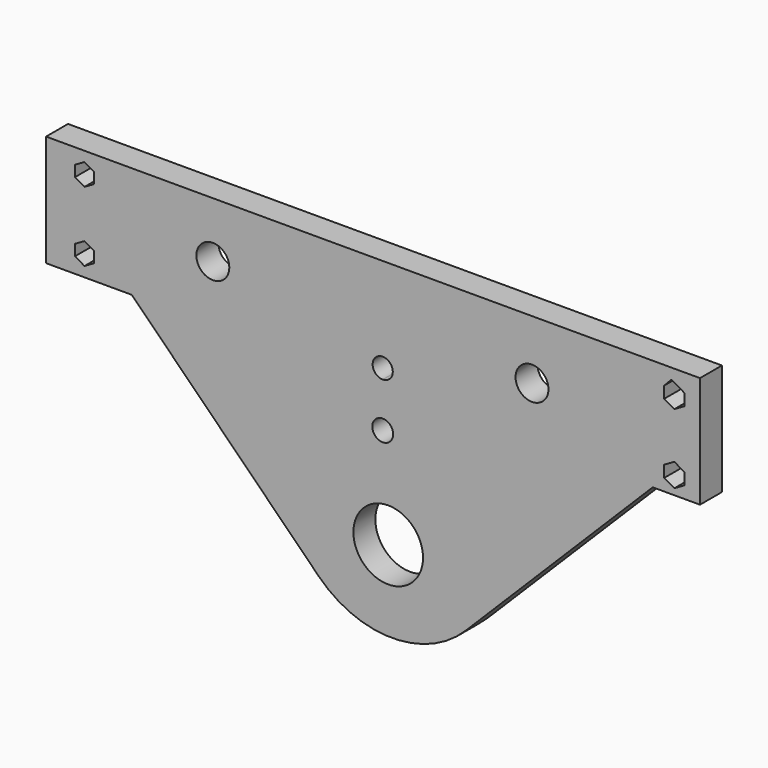
from build123d import *

# Parameters (mm, degrees)
F0_R     = 15
F0_W     = 36.068
F0_H     = 101.6
F1_DEPTH = 25
F2_R     = 31.735149
F3_DEPTH = 41.5


with BuildPart() as f1:
    # F0 (on Front) → F1 (new body)
    with BuildSketch(Plane.XZ):
        Polygon((-31.863977, 65.292279), (-311.863977, 65.292279), (-311.863977, -36.307721), (-233.73467, -36.307721), (-31.863977, -36.307721), align=None)
        Polygon((-276.863977, -7.207721), (-268.203723, -12.207721), (-268.203723, -22.207721), (-276.863977, -27.207721), (-285.524232, -22.207721), (-285.524232, -12.207721), align=None, mode=Mode.SUBTRACT)
        Polygon((-276.863977, 56.292279), (-268.203723, 51.292279), (-268.203723, 41.292279), (-276.863977, 36.292279), (-285.524232, 41.292279), (-285.524232, 51.292279), align=None, mode=Mode.SUBTRACT)
        with Locations((-159.848511, 14.492279)):
            Circle(F0_R, mode=Mode.SUBTRACT)
        with BuildLine():
            Line((4.204023, -36.307721), (-31.863977, -36.307721))
            Line((-31.863977, -36.307721), (-233.73467, -36.307721))
            Line((-233.73467, -36.307721), (-63.321936, -206.720455))
            ThreePointArc((-63.321936, -206.720455), (3.702273, -234.482792), (70.726482, -206.720455))
            Line((70.726482, -206.720455), (241.139217, -36.307721))
            Line((241.139217, -36.307721), (4.204023, -36.307721))
        make_face()
        Polygon((284.204023, 65.292279), (4.204023, 65.292279), (4.204023, -36.307721), (241.139217, -36.307721), (284.204023, -36.307721), align=None)
        Polygon((270.046381, -14.739129), (270.046381, -25.382838), (260.828659, -30.704693), (251.610936, -25.382838), (251.610936, -14.739129), (260.828659, -9.417275), align=None, mode=Mode.SUBTRACT)
        with Locations((131.082676, 11.418583)):
            Circle(F0_R, mode=Mode.SUBTRACT)
        Polygon((251.610936, 38.117162), (251.610936, 48.760871), (258.170857, 55.617208), (270.046381, 48.760871), (270.046381, 38.117162), (260.828659, 32.795307), align=None, mode=Mode.SUBTRACT)
        with Locations((-13.829977, 14.492279)):
            Rectangle(F0_W, F0_H)
    extrude(amount=F1_DEPTH)

    # F2 (on face) → F3 (cut, symmetric)
    with BuildSketch(Plane.XZ.offset(25)):
        with BuildLine():
            ThreePointArc((4.521563, -70.706641), (1.73324, -63.975033), (-4.998368, -61.186709))
            ThreePointArc((-4.998368, -61.186709), (-11.729976, -77.438249), (4.521563, -70.706641))
        make_face()
        with BuildLine():
            ThreePointArc((-4.998368, -29.891179), (1.496081, -27.20109), (4.18617, -20.706641))
            ThreePointArc((4.18617, -20.706641), (-11.492818, -14.212191), (-4.998368, -29.891179))
        make_face()
        with Locations((0, -160.971836)):
            Circle(F2_R)
    extrude(amount=F3_DEPTH, both=True, mode=Mode.SUBTRACT)


solid = f1.part
